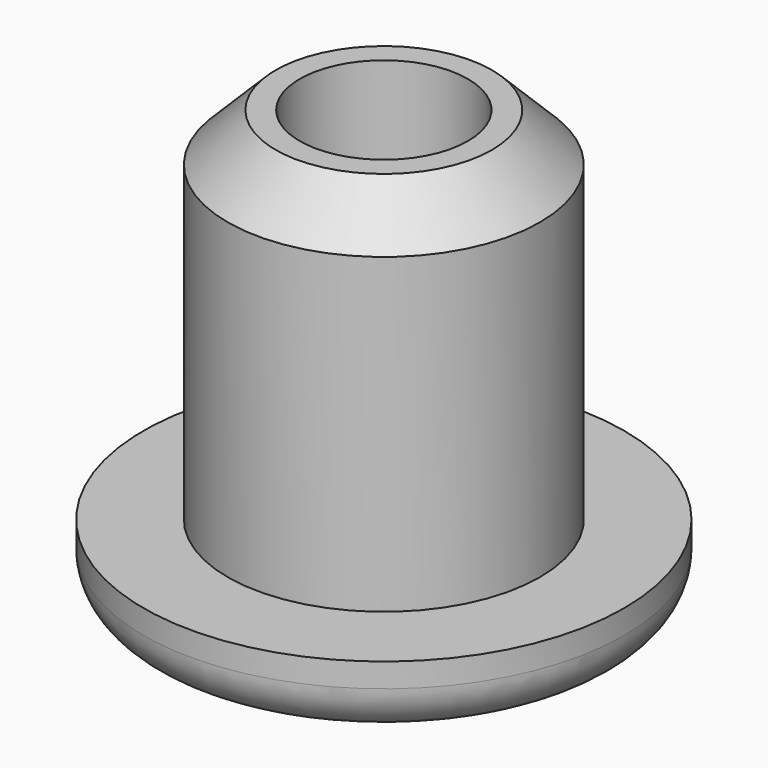
from build123d import *

# Parameters (mm, degrees)
SKETCH_R     = 10
PAD_DEPTH    = 3
SKETCH001_R  = 6.5
PAD001_DEPTH = 15
SKETCH002_R  = 3.5
POCKET_DEPTH = 15
FILLET_R     = 2
CHAMFER_SIZE = 2


with BuildPart() as part:
    # Sketch → Pad (new body)
    with BuildSketch(Plane.XY):
        Circle(SKETCH_R)
    extrude(amount=PAD_DEPTH)

    # Sketch001 (on Face3 of Pad) → Pad001 (join)
    with BuildSketch(Plane.XY.offset(3)):
        Circle(SKETCH001_R)
    extrude(amount=PAD001_DEPTH)

    # Sketch002 (on Face5 of Pad001) → Pocket (cut)
    with BuildSketch(Plane.XY.offset(18)):
        Circle(SKETCH002_R)
    extrude(amount=-POCKET_DEPTH, mode=Mode.SUBTRACT)

    # Fillet
    fillet_edges = [part.edges().sort_by_distance(p)[0] for p in [
        (-10, 0, 0),
    ]]
    fillet(fillet_edges, radius=FILLET_R)

    # Chamfer
    chamfer_edges = [part.edges().sort_by_distance(p)[0] for p in [
        (-6.5, 0, 18),
    ]]
    chamfer(chamfer_edges, length=CHAMFER_SIZE)


solid = part.part
